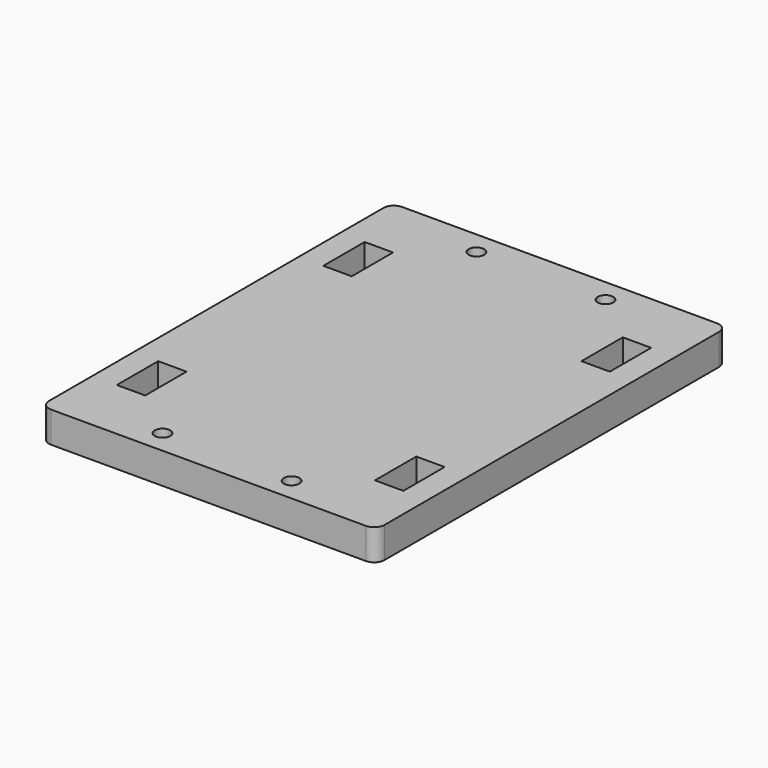
from build123d import *

# Parameters (mm, degrees)
F1_DEPTH = 6
F2_W     = 5.5
F2_H     = 10
F3_DEPTH = 25
F4_R     = 1.5
F5_DEPTH = 6


with BuildPart() as f1:
    # F0 (on Top) → F1 (new body)
    with BuildSketch(Plane.XY):
        with BuildLine():
            Line((-30.5, -42.5), (30.5, -42.5))
            ThreePointArc((30.5, -42.5), (31.914214, -41.914214), (32.5, -40.5))
            Line((32.5, -40.5), (32.5, 40.5))
            ThreePointArc((32.5, 40.5), (31.914214, 41.914214), (30.5, 42.5))
            Line((30.5, 42.5), (-30.5, 42.5))
            ThreePointArc((-30.5, 42.5), (-31.914214, 41.914214), (-32.5, 40.5))
            Line((-32.5, 40.5), (-32.5, -40.5))
            ThreePointArc((-32.5, -40.5), (-31.914214, -41.914214), (-30.5, -42.5))
        make_face()
    extrude(amount=F1_DEPTH)

    # F2 (on face) → F3 (cut)
    with BuildSketch(Plane.XY.offset(6)):
        with Locations((-25, 25)):
            Rectangle(F2_W, F2_H)
        with Locations((25, 25)):
            Rectangle(F2_W, F2_H)
        with Locations((25, -25)):
            Rectangle(F2_W, F2_H)
        with Locations((-25, -25)):
            Rectangle(F2_W, F2_H)
    extrude(amount=-F3_DEPTH, mode=Mode.SUBTRACT)

    # F4 (on face) → F5 (cut)
    with BuildSketch(Plane.XY.offset(6)):
        with Locations((-12.5, 38)):
            Circle(F4_R)
        with Locations((12.5, 38)):
            Circle(F4_R)
        with Locations((12.5, -38)):
            Circle(F4_R)
        with Locations((-12.5, -38)):
            Circle(F4_R)
    extrude(amount=-F5_DEPTH, mode=Mode.SUBTRACT)


solid = f1.part
